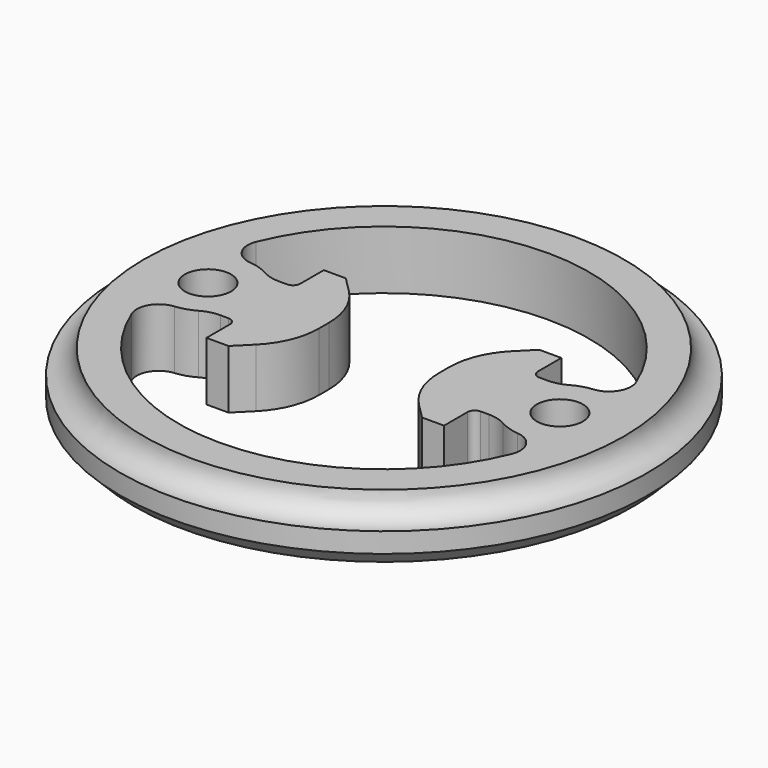
from build123d import *

# Parameters (mm, degrees)
F2_R     = 1.575
F3_DEPTH = 4
F4_COUNT = 2
F5_R     = 5
F6_R     = 2.5
F7_R     = 0.5
F8_SIZE  = 1
F9_SIZE  = 0.25


with BuildPart() as f1:
    # F0 (on Right) → F1 (revolve)
    with BuildSketch(Plane.YZ):
        with BuildLine():
            Line((16.36, 0), (14, 0))
            Line((14, 0), (14, -4))
            Line((14, -4), (18, -4))
            Line((18, -4), (18, -1.64))
            ThreePointArc((18, -1.64), (16.8403448789, -1.1596551211), (16.36, 0))
        make_face()
    revolve(axis=Axis((0, 0, -0.7442336064), (0, 0, -1)))

    # F2 (on face) → F3 (join, through all)
    with BuildSketch(Plane.XY):
        with BuildLine():
            Line((-8.1, 2.5), (-9.9233440343, 2.5))
            ThreePointArc((-9.9233440343, 2.5), (-10.7587622743, 3.003635948), (-11.7060032895, 3.2366751357))
            ThreePointArc((-11.7060032895, 3.2366751357), (-12.8521864455, 3.9515520359), (-12.95875, 5.2981882222))
            ThreePointArc((-12.95875, 5.2981882222), (-14, 0), (-12.95875, -5.2981882222))
            ThreePointArc((-12.95875, -5.2981882222), (-12.8521864455, -3.9515520359), (-11.7060032895, -3.2366751357))
            ThreePointArc((-11.7060032895, -3.2366751357), (-10.7587622743, -3.003635948), (-9.9233440343, -2.5))
            Line((-9.9233440343, -2.5), (-8.1, -2.5))
            Line((-8.1, -2.5), (-8.1, -5))
            Line((-8.1, -5), (-6.6, -5))
            Line((-6.6, -5), (-4.1, -2.5))
            Line((-4.1, -2.5), (-4.1, 2.5))
            Line((-4.1, 2.5), (-6.6, 5))
            Line((-6.6, 5), (-8.1, 5))
            Line((-8.1, 5), (-8.1, 2.5))
        make_face()
        with Locations((-12, 0)):
            Circle(F2_R, mode=Mode.SUBTRACT)
    extrude(amount=-F3_DEPTH)

    # F4: F1 ×2 about axis
    f4_axis = Axis((0, 0, 0), (0, 0, -1))


with BuildPart() as f1_1:
    add(f1.part)
    for i in range(1, F4_COUNT):
        add(f1.part.rotate(f4_axis, i * 360 / F4_COUNT))

    # F5
    f5_edges = [f1_1.edges().sort_by_distance(p)[0] for p in [
        (-4.1, -2.5, -2),
        (-4.1, 2.5, -2),
        (4.1, 2.5, -2),
        (4.1, -2.5, -2),
    ]]
    fillet(f5_edges, radius=F5_R)

    # F6
    f6_edges = [f1_1.edges().sort_by_distance(p)[0] for p in [
        (-9.923344, 2.5, -2),
        (-9.923344, -2.5, -2),
        (9.923344, 2.5, -2),
        (9.923344, -2.5, -2),
    ]]
    fillet(f6_edges, radius=F6_R)

    # F7
    f7_edges = [f1_1.edges().sort_by_distance(p)[0] for p in [
        (-8.1, 2.5, -2),
        (-8.1, -2.5, -2),
        (8.1, -2.5, -2),
        (8.1, 2.5, -2),
    ]]
    fillet(f7_edges, radius=F7_R)

    # F8
    f8_edges = [f1_1.edges().sort_by_distance(p)[0] for p in [
        (0, -18, -4),
    ]]
    chamfer(f8_edges, length=F8_SIZE)

    # F9
    f9_edges = [f1_1.edges().sort_by_distance(p)[0] for p in [
        (13.575, 0, -4),
        (-13.575, 0, -4),
    ]]
    chamfer(f9_edges, length=F9_SIZE)


solid = f1_1.part
